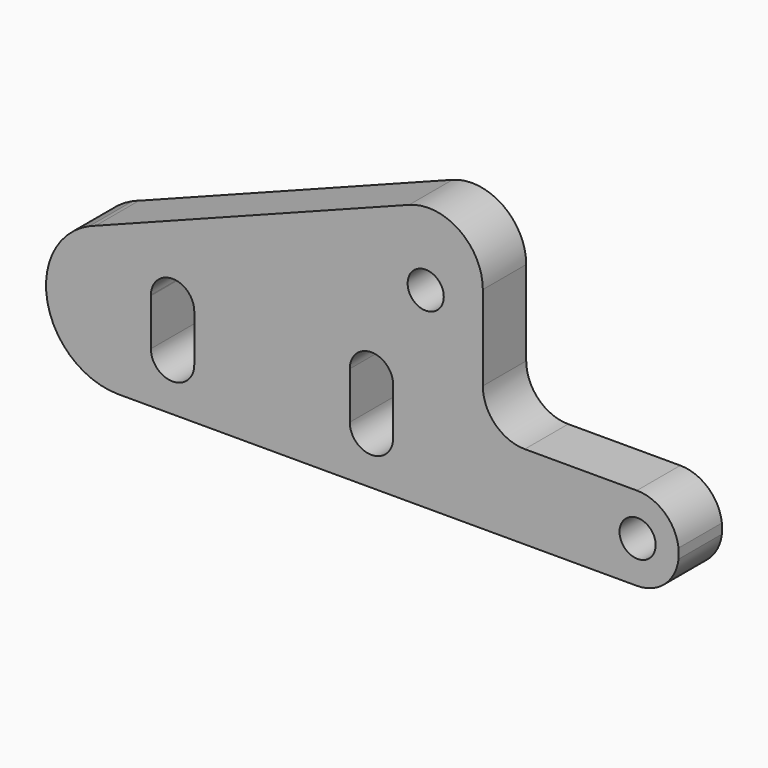
from build123d import *

# Parameters (mm, degrees)
F0_R     = 3.175
F1_DEPTH = 9.525
F3_DEPTH = 127


with BuildPart() as f1:
    # F0 (on Front) → F1 (new body)
    with BuildSketch(Plane.XZ):
        with BuildLine():
            Line((-5.09987, 11.63105), (-3.99275, 12.056034))
            ThreePointArc((-3.99275, 12.056034), (-4.551273, 11.856471), (-5.09987, 11.63105))
        make_face()
        with BuildLine():
            Line((51.069545, 33.192469), (-3.99275, 12.056034))
            Line((-3.99275, 12.056034), (-5.09987, 11.63105))
            ThreePointArc((-5.09987, 11.63105), (-12.42989, -2.605347), (0, -12.7))
            Line((0, -12.7), (91.059, -12.7))
            ThreePointArc((91.059, -12.7), (98.425, -5.334), (91.059, 2.032))
            Line((91.059, 2.032), (71.374, 2.032))
            ThreePointArc((71.374, 2.032), (66.165451, 4.189451), (64.008, 9.398))
            Line((64.008, 9.398), (64.008, 24.300115))
            ThreePointArc((64.008, 24.300115), (59.878019, 32.149917), (51.069545, 33.192469))
        make_face()
        with BuildLine():
            ThreePointArc((5.715483, 4.505655), (9.555328, 8.254879), (13.335, 4.445))
            Line((13.335, 4.445), (13.335, -3.81))
            ThreePointArc((13.335, -3.81), (9.524889, -7.62), (5.715, -3.809779))
            Line((5.715, -3.809779), (5.715476, 4.384788))
            ThreePointArc((5.715476, 4.384788), (5.715, 4.445221), (5.715483, 4.505655))
        make_face(mode=Mode.SUBTRACT)
        with Locations((91.186, -5.334)):
            Circle(F0_R, mode=Mode.SUBTRACT)
        with BuildLine():
            ThreePointArc((40.64, 4.445), (44.45, 8.255), (48.26, 4.445))
            Line((48.26, 4.445), (48.26, -3.81))
            ThreePointArc((48.26, -3.81), (44.45, -7.62), (40.64, -3.81))
            Line((40.64, -3.81), (40.64, 4.445))
        make_face(mode=Mode.SUBTRACT)
        with Locations((53.975, 20.955)):
            Circle(F0_R, mode=Mode.SUBTRACT)
    extrude(amount=F1_DEPTH)

    # F2 (on face) → F3 (cut)
    with BuildSketch(Plane.XZ.offset(9.525)):
        with BuildLine():
            ThreePointArc((98.3742, -6.1976), (98.412289, -5.766546), (98.425, -5.334))
            Line((98.425, -5.334), (98.3742, -5.334))
            Line((98.3742, -5.334), (98.3742, -6.1976))
        make_face()
        with BuildLine():
            Line((98.3742, -5.334), (98.425, -5.334))
            ThreePointArc((98.425, -5.334), (98.412289, -4.901454), (98.3742, -4.4704))
            Line((98.3742, -4.4704), (98.3742, -5.334))
        make_face()
    extrude(amount=-F3_DEPTH, mode=Mode.SUBTRACT)


solid = f1.part
